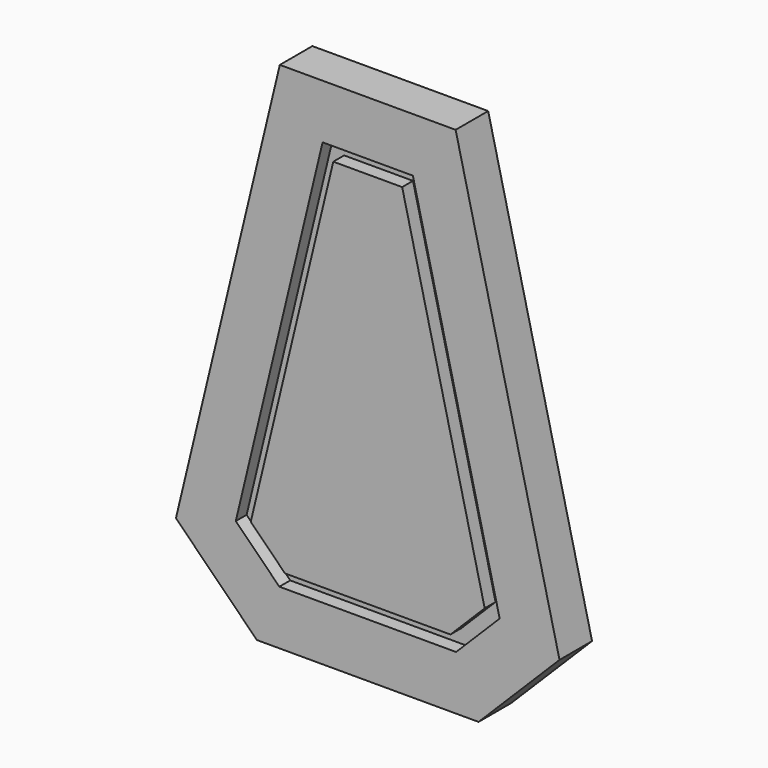
from build123d import *

# Parameters (mm, degrees)
F2_DEPTH = 3
F4_DEPTH = 1


with BuildPart() as f2:
    # F1 (on offset) → F2 (new body)
    with BuildSketch(Plane.XZ.offset(23)):
        Polygon((-6.480611, -13), (-14.139251, -44.911001), (-8.171573, -50.87868), (8.171573, -50.87868), (14.139251, -44.911001), (6.480611, -13), align=None)
    extrude(amount=F2_DEPTH)

    # F3 (on face) → F4 (cut)
    with BuildSketch(Plane.XZ.offset(26)):
        Polygon((9.726967, -43.666431), (3.327024, -17), (-3.327024, -17), (-9.726967, -43.666431), (-6.514719, -46.87868), (6.514719, -46.87868), align=None)
        Polygon((-2.538627, -18), (2.538627, -18), (8.623896, -43.355288), (6.100505, -45.87868), (-6.100505, -45.87868), (-8.623896, -43.355288), align=None, mode=Mode.SUBTRACT)
    extrude(amount=-F4_DEPTH, mode=Mode.SUBTRACT)


solid = f2.part
